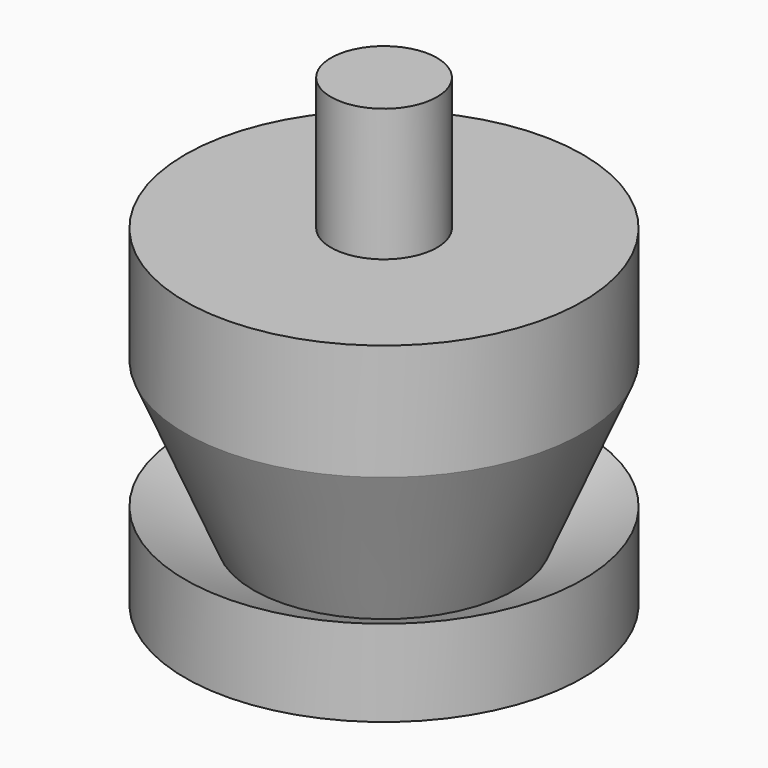
from build123d import *

# Parameters (mm, degrees)
F2_R     = 4
F3_DEPTH = 10


with BuildPart() as f1:
    # F0 (on Front) → F1 (revolve)
    with BuildSketch(Plane.XZ):
        Polygon((0, 0), (0, 25), (-15, 25), (-15, 16.248118), (-9.843752, 4.150979), (-15, 6.522967), (-15, 0), align=None)
    revolve(axis=Axis((0, 0, 12.5), (0, 0, -1)))

    # F2 (on face) → F3 (join)
    with BuildSketch(Plane.XY.offset(25)):
        Circle(F2_R)
    extrude(amount=F3_DEPTH)


solid = f1.part
